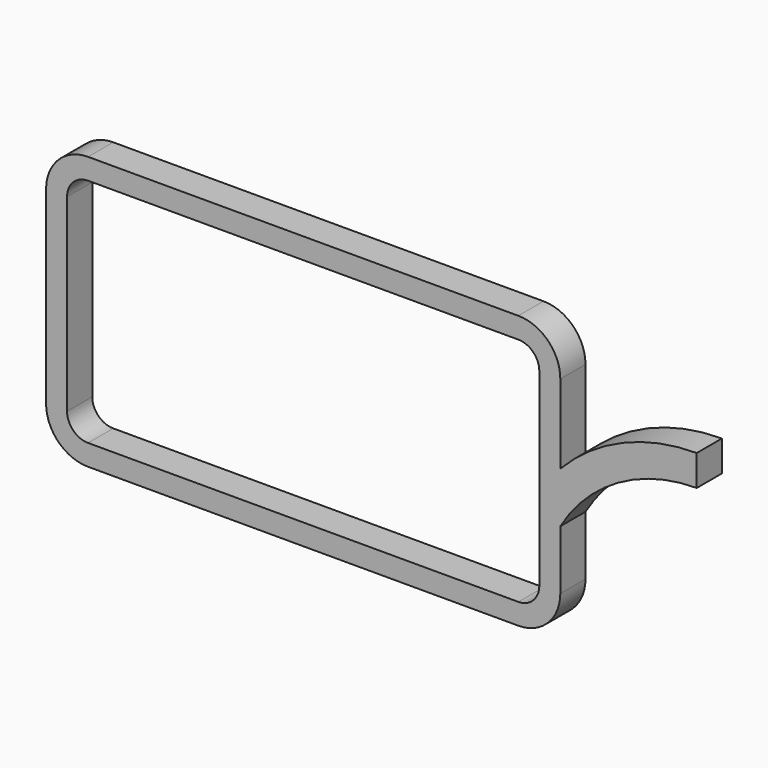
from build123d import *

# Parameters (mm, degrees)
F1_DEPTH = 3


with BuildPart() as f1:
    # F0 (on Front) → F1 (new body)
    with BuildSketch(Plane.XZ):
        with BuildLine():
            Line((-17, 24), (-58, 24))
            ThreePointArc((-58, 24), (-60.828427, 22.828427), (-62, 20))
            Line((-62, 20), (-62, 2))
            ThreePointArc((-62, 2), (-60.828427, -0.828427), (-58, -2))
            Line((-58, -2), (-17, -2))
            ThreePointArc((-17, -2), (-14.171573, -0.828427), (-13, 2))
            Line((-13, 2), (-13, 7.643349))
            ThreePointArc((-13, 7.643349), (-7.488506, 13.089808), (0, 15.080477))
            Line((0, 15.080477), (0, 18.016042))
            ThreePointArc((0, 18.016042), (-7.066194, 16.572467), (-13, 12.473081))
            Line((-13, 12.473081), (-13, 20))
            ThreePointArc((-13, 20), (-14.171573, 22.828427), (-17, 24))
        make_face()
        with BuildLine():
            Line((-17, 0), (-58, 0))
            ThreePointArc((-58, 0), (-59.414214, 0.585786), (-60, 2))
            Line((-60, 2), (-60, 20))
            ThreePointArc((-60, 20), (-59.414214, 21.414214), (-58, 22))
            Line((-58, 22), (-17, 22))
            ThreePointArc((-17, 22), (-15.585786, 21.414214), (-15, 20))
            Line((-15, 20), (-15, 2))
            ThreePointArc((-15, 2), (-15.585786, 0.585786), (-17, 0))
        make_face(mode=Mode.SUBTRACT)
    extrude(amount=F1_DEPTH)


solid = f1.part
